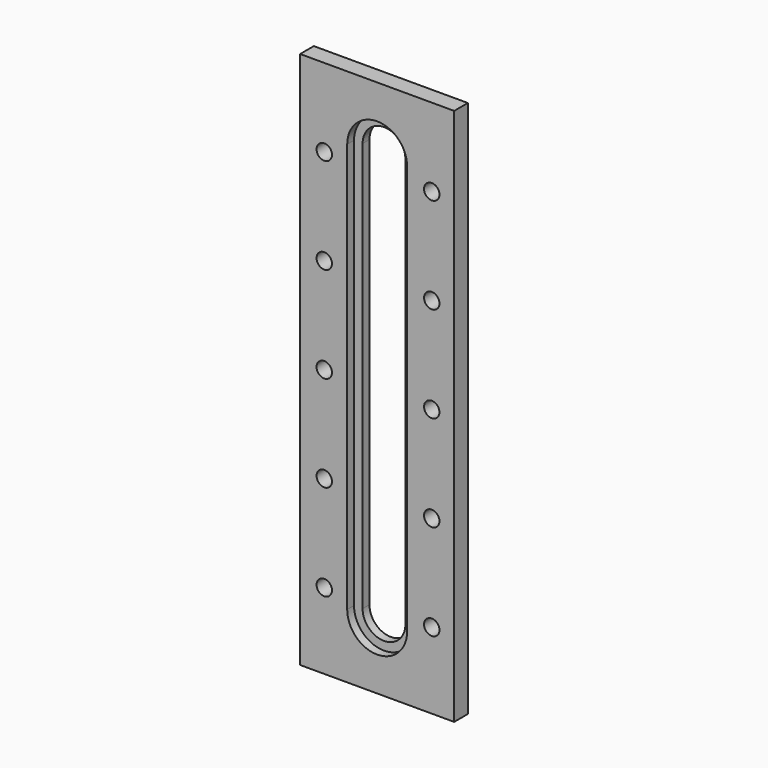
from build123d import *

# Parameters (mm, degrees)
F0_W     = 90
F0_H     = 314.28
F1_DEPTH = 10
F3_DEPTH = 5
F4_R     = 4.5
F5_DEPTH = 25


with BuildPart() as f1:
    # F0 (on Front) → F1 (new body)
    with BuildSketch(Plane.XZ):
        Rectangle(F0_W, F0_H)
        with BuildLine():
            Line((-12.5, -119.64), (-12.5, 119.64))
            ThreePointArc((-12.5, 119.64), (0, 132.14), (12.5, 119.64))
            Line((12.5, 119.64), (12.5, -119.64))
            ThreePointArc((12.5, -119.64), (0, -132.14), (-12.5, -119.64))
        make_face(mode=Mode.SUBTRACT)
    extrude(amount=F1_DEPTH)

    # F2 (on face) → F3 (cut)
    with BuildSketch(Plane.XZ.offset(10)):
        with BuildLine():
            Line((17.5, -119.64), (17.5, 119.64))
            ThreePointArc((17.5, 119.64), (0, 137.14), (-17.5, 119.64))
            Line((-17.5, 119.64), (-17.5, -119.64))
            ThreePointArc((-17.5, -119.64), (0, -137.14), (17.5, -119.64))
        make_face()
    extrude(amount=-F3_DEPTH, mode=Mode.SUBTRACT)

    # F4 (on face) → F5 (cut)
    with BuildSketch(Plane.XZ.offset(10)):
        with Locations((31.899736, -112.695811)):
            Circle(F4_R)
        with Locations((-30.900264, -112.695811)):
            Circle(F4_R)
        with Locations((31.899736, -56.695811)):
            Circle(F4_R)
        with Locations((31.899736, -0.695811)):
            Circle(F4_R)
        with Locations((31.899736, 55.304189)):
            Circle(F4_R)
        with Locations((31.899736, 111.304189)):
            Circle(F4_R)
        with Locations((-30.900264, 111.304189)):
            Circle(F4_R)
        with Locations((-30.900264, 55.304189)):
            Circle(F4_R)
        with Locations((-30.900264, -0.695811)):
            Circle(F4_R)
        with Locations((-30.900264, -56.695811)):
            Circle(F4_R)
    extrude(amount=-F5_DEPTH, mode=Mode.SUBTRACT)


solid = f1.part
